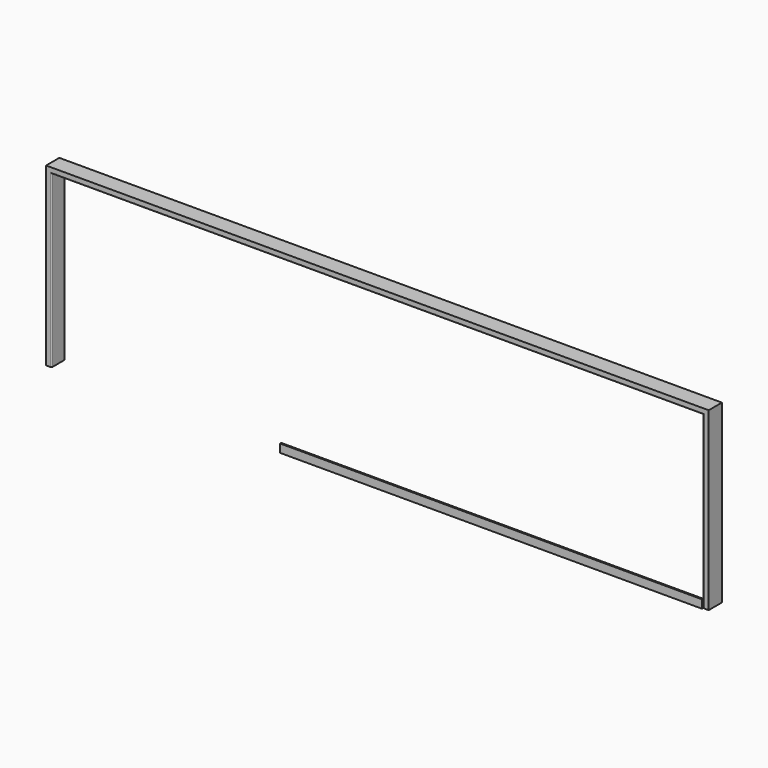
from build123d import *

# Parameters (mm, degrees)
F1_W     = 25.4
F1_H     = 76.2
F4_R     = 5.08
F3_W     = 1941.5125
F3_H     = 38.1
F5_DEPTH = 6.35


with BuildPart() as f2:
    # F2: sweep along a path in F0
    with BuildLine(Plane.XZ) as f2_path:
        Line((0, 0), (0, 809.625))
        Line((0, 809.625), (-3048, 809.625))
        Line((-3048, 809.625), (-3048, 0))
    # F1 (on Top) → F2 (sweep)
    with BuildSketch(Plane.XY):
        with Locations((-12.7, -38.1)):
            Rectangle(F1_W, F1_H)
    sweep(path=f2_path.line, transition=Transition.RIGHT)

    # F4
    f4_edges = [f2.edges().sort_by_distance(p)[0] for p in [
        (-25.4, 0, 392.1125),
        (-25.4, -76.2, 392.1125),
        (-1524, 0, 784.225),
        (-1524, -76.2, 784.225),
        (-3022.6, 0, 392.1125),
        (-3022.6, -76.2, 392.1125),
    ]]
    fillet(f4_edges, radius=F4_R)


with BuildPart() as f5:
    # F3 (on face) → F5 (new body)
    with BuildSketch(Plane.XZ.offset(76.2)):
        with Locations((-996.15625, 19.05)):
            Rectangle(F3_W, F3_H)
    extrude(amount=F5_DEPTH)


solid = Compound([f2.part, f5.part])
